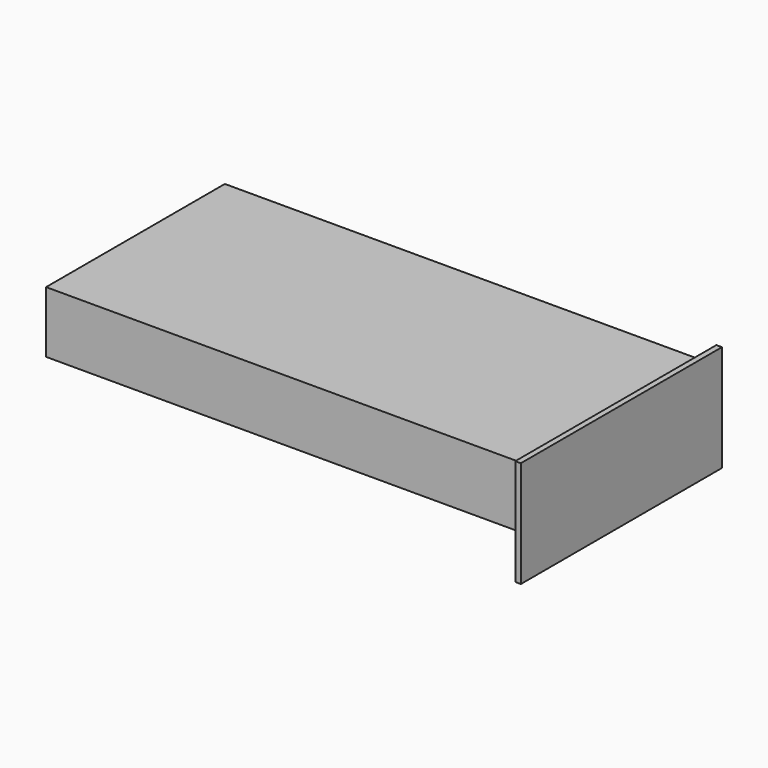
from build123d import *

# Parameters (mm, degrees)
F0_W     = 172
F0_H     = 80
F1_DEPTH = 22
F2_T     = -2
F3_W     = 2
F3_H     = 90
F4_DEPTH = 22.1
F5_DEPTH = 3
F6_DEPTH = 3
F7_DEPTH = 10


with BuildPart() as f1:
    # F0 (on Top) → F1 (new body)
    with BuildSketch(Plane.XY):
        with Locations((2.7826657335, -8.4195947275)):
            Rectangle(F0_W, F0_H)
    extrude(amount=F1_DEPTH)

    # F2
    f2_openings = [f1.faces().sort_by_distance(p)[0] for p in [
        (2.782666, -8.419595, 0),
    ]]
    offset(amount=F2_T, openings=f2_openings)


with BuildPart() as f4:
    # F3 (on Top) → F4 (new body)
    with BuildSketch(Plane.XY):
        with Locations((89.7852818131, -8.4195947275)):
            Rectangle(F3_W, F3_H)
    extrude(amount=F4_DEPTH)

    # F5 (add): a face of the model
    f5_faces = [f4.faces().sort_by_distance(p)[0] for p in [
        (89.7852818131, -8.4195947275, 0),
    ]]
    extrude(f5_faces, amount=F5_DEPTH)

    # F6 (add): a face of the model
    f6_faces = [f4.faces().sort_by_distance(p)[0] for p in [
        (89.7852818131, -8.4195947275, 22.1),
    ]]
    extrude(f6_faces, amount=F6_DEPTH)

    # F7 (add): a face of the model
    f7_faces = [f4.faces().sort_by_distance(p)[0] for p in [
        (89.7852818131, -8.4195947275, -3),
    ]]
    extrude(f7_faces, amount=F7_DEPTH)


solid = Compound([f1.part, f4.part])
